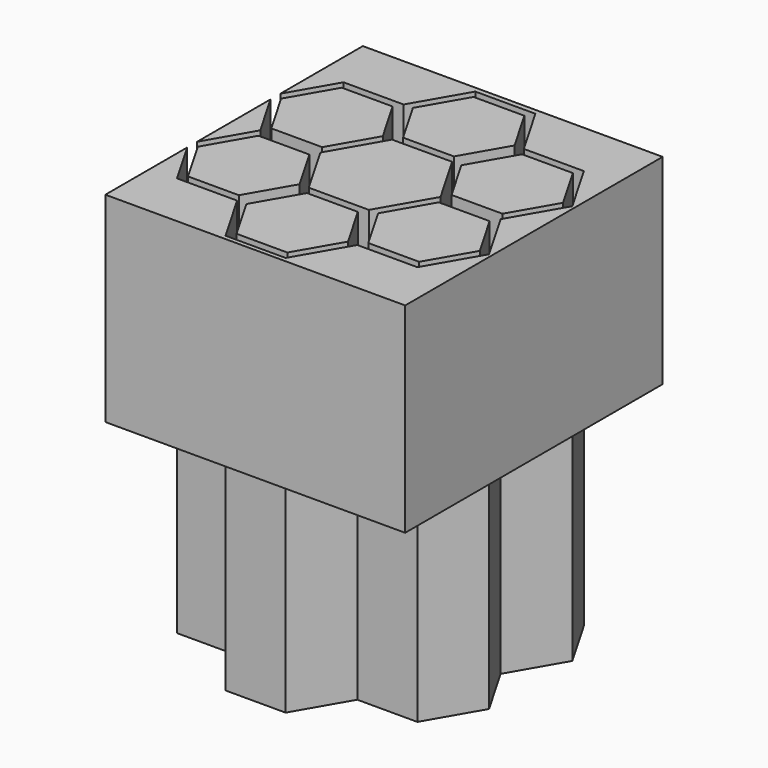
from build123d import *

# Parameters (mm, degrees)
F1_DEPTH = 25
F3_DEPTH = 25
F6_DEPTH = 25


with BuildPart() as f1:
    # F0 (on Top) → F1 (new body)
    with BuildSketch(Plane.XY):
        Polygon((-7.5055534995, 13), (-3.7527767497, 6.5), (3.7527767497, 6.5), (7.5055534995, 13), (3.7527767497, 19.5), (-3.7527767497, 19.5), align=None)
        Polygon((-3.1754264805, 7.5), (-6.3508529611, 13), (-3.1754264805, 18.5), (3.1754264805, 18.5), (6.3508529611, 13), (3.1754264805, 7.5), align=None, mode=Mode.SUBTRACT)
        Polygon((-7.5055534995, 0), (-3.7527767497, 6.5), (-7.5055534995, 13), (-15.0111069989, 13), (-18.7638837487, 6.5), (-15.0111069989, 0), align=None)
        Polygon((-8.0829037687, 1), (-14.4337567297, 1), (-17.6091832103, 6.5), (-14.4337567297, 12), (-8.0829037687, 12), (-4.9074772881, 6.5), align=None, mode=Mode.SUBTRACT)
        Polygon((7.5055534995, 13), (3.7527767497, 6.5), (7.5055534995, 0), (15.0111069989, 0), (18.7638837487, 6.5), (15.0111069989, 13), align=None)
        Polygon((8.0829037687, 1), (4.9074772881, 6.5), (8.0829037687, 12), (14.4337567297, 12), (17.6091832103, 6.5), (14.4337567297, 1), align=None, mode=Mode.SUBTRACT)
        Polygon((-3.7527767497, -6.5), (-7.5055534995, 0), (-15.0111069989, 0), (-18.7638837487, -6.5), (-15.0111069989, -13), (-7.5055534995, -13), align=None)
        Polygon((-14.4337567297, -12), (-17.6091832103, -6.5), (-14.4337567297, -1), (-8.0829037687, -1), (-4.9074772881, -6.5), (-8.0829037687, -12), align=None, mode=Mode.SUBTRACT)
        Polygon((15.0111069989, 0), (7.5055534995, 0), (3.7527767497, -6.5), (7.5055534995, -13), (15.0111069989, -13), (18.7638837487, -6.5), align=None)
        Polygon((8.0829037687, -12), (4.9074772881, -6.5), (8.0829037687, -1), (14.4337567297, -1), (17.6091832103, -6.5), (14.4337567297, -12), align=None, mode=Mode.SUBTRACT)
        Polygon((3.7527767497, -6.5), (-3.7527767497, -6.5), (-7.5055534995, -13), (-3.7527767497, -19.5), (3.7527767497, -19.5), (7.5055534995, -13), align=None)
        Polygon((3.1754264805, -18.5), (-3.1754264805, -18.5), (-6.3508529611, -13), (-3.1754264805, -7.5), (3.1754264805, -7.5), (6.3508529611, -13), align=None, mode=Mode.SUBTRACT)
    extrude(amount=F1_DEPTH)

    # F2 (on face) → F3 (join)
    with BuildSketch(Plane.XY.offset(25)):
        Polygon((3.7527767497, -19.5), (7.5055534995, -13), (15.0111069989, -13), (18.7638837487, -6.5), (15.0111069989, 0), (18.7638837487, 6.5), (15.0111069989, 13), (7.5055534995, 13), (3.7527767497, 19.5), (-3.7527767497, 19.5), (-7.5055534995, 13), (-15.0111069989, 13), (-18.7638837487, 6.5), (-15.0111069989, 0), (-18.7638837487, -6.5), (-15.0111069989, -13), (-7.5055534995, -13), (-3.7527767497, -19.5), align=None)
        Polygon((-8.0829037687, -1), (-4.9074772881, -6.5), (-8.0829037687, -12), (-14.4337567297, -12), (-17.6091832103, -6.5), (-14.4337567297, -1), align=None, mode=Mode.SUBTRACT)
        Polygon((-6.3508529611, -13), (-3.1754264805, -7.5), (3.1754264805, -7.5), (6.3508529611, -13), (3.1754264805, -18.5), (-3.1754264805, -18.5), align=None, mode=Mode.SUBTRACT)
        Polygon((17.6091832103, -6.5), (14.4337567297, -12), (8.0829037687, -12), (4.9074772881, -6.5), (8.0829037687, -1), (14.4337567297, -1), align=None, mode=Mode.SUBTRACT)
        Polygon((-14.4337567297, 12), (-8.0829037687, 12), (-4.9074772881, 6.5), (-8.0829037687, 1), (-14.4337567297, 1), (-17.6091832103, 6.5), align=None, mode=Mode.SUBTRACT)
        Polygon((3.1754264805, 18.5), (6.3508529611, 13), (3.1754264805, 7.5), (-3.1754264805, 7.5), (-6.3508529611, 13), (-3.1754264805, 18.5), align=None, mode=Mode.SUBTRACT)
        Polygon((-7.5055534995, 0), (-3.7527767497, 6.5), (3.7527767497, 6.5), (7.5055534995, 0), (3.7527767497, -6.5), (-3.7527767497, -6.5), align=None, mode=Mode.SUBTRACT)
        Polygon((14.4337567297, 12), (17.6091832103, 6.5), (14.4337567297, 1), (8.0829037687, 1), (4.9074772881, 6.5), (8.0829037687, 12), align=None, mode=Mode.SUBTRACT)
    extrude(amount=-F3_DEPTH)


with BuildPart() as f6:
    # F5 (on face) → F6 (new body)
    with BuildSketch(Plane.XY.offset(25)):
        Polygon((-15.0111069989, 0), (-18.3182880282, 5.7282055726), (-18.3182880282, -5.7282055726), align=None)
    extrude(amount=F6_DEPTH)


with BuildPart() as f6b:
    # F5 (on face) → F6, piece 2 (new body)
    with BuildSketch(Plane.XY.offset(25)):
        Polygon((-18.3182880282, -20.0500637293), (8.5395220667, -20.0500637293), (8.5395220667, -13), (7.5055534995, -13), (3.7527767497, -19.5), (-3.7527767497, -19.5), (-7.5055534995, -13), (-15.0111069989, -13), (-18.3182880282, -7.2717944274), (-18.3182880282, -19.2839857191), align=None)
        Polygon((19.1294308752, 20.1465263963), (8.5395220667, 20.1465263963), (8.5395220667, 13), (15.0111069989, 13), (18.7638837487, 6.5), (15.0111069989, 0), (18.7638837487, -6.5), (15.0111069989, -13), (8.5395220667, -13), (8.5395220667, -20.0500637293), (19.1294308752, -20.0500637293), align=None)
        Polygon((8.5395220667, 20.1465263963), (-18.3182880282, 20.1465263963), (-18.3182880282, 7.2717944274), (-15.0111069989, 13), (-7.5055534995, 13), (-3.7527767497, 19.5), (3.7527767497, 19.5), (7.5055534995, 13), (8.5395220667, 13), align=None)
    extrude(amount=F6_DEPTH)


with BuildPart() as f6c:
    # F4 (on face) → F6, piece 3 (new body)
    with BuildSketch(Plane.XY.offset(25)):
        Polygon((-4.9074772881, 6.5), (-8.0829037687, 12), (-14.4337567297, 12), (-17.6091832103, 6.5), (-14.4337567297, 1), (-8.0829037687, 1), align=None)
    extrude(amount=F6_DEPTH)


with BuildPart() as f6d:
    # F4 (on face) → F6, piece 4 (new body)
    with BuildSketch(Plane.XY.offset(25)):
        Polygon((-8.0829037687, -12), (-4.9074772881, -6.5), (-8.0829037687, -1), (-14.4337567297, -1), (-17.6091832103, -6.5), (-14.4337567297, -12), align=None)
    extrude(amount=F6_DEPTH)


with BuildPart() as f6e:
    # F4 (on face) → F6, piece 5 (new body)
    with BuildSketch(Plane.XY.offset(25)):
        Polygon((3.7527767497, 6.5), (-3.7527767497, 6.5), (-7.5055534995, 0), (-3.7527767497, -6.5), (3.7527767497, -6.5), (7.5055534995, 0), align=None)
    extrude(amount=F6_DEPTH)


with BuildPart() as f6f:
    # F4 (on face) → F6, piece 6 (new body)
    with BuildSketch(Plane.XY.offset(25)):
        Polygon((3.1754264805, -7.5), (-3.1754264805, -7.5), (-6.3508529611, -13), (-3.1754264805, -18.5), (3.1754264805, -18.5), (6.3508529611, -13), align=None)
    extrude(amount=F6_DEPTH)


with BuildPart() as f6g:
    # F4 (on face) → F6, piece 7 (new body)
    with BuildSketch(Plane.XY.offset(25)):
        Polygon((8.0829037687, -12), (14.4337567297, -12), (17.6091832103, -6.5), (14.4337567297, -1), (8.0829037687, -1), (4.9074772881, -6.5), align=None)
    extrude(amount=F6_DEPTH)


with BuildPart() as f6h:
    # F4 (on face) → F6, piece 8 (new body)
    with BuildSketch(Plane.XY.offset(25)):
        Polygon((14.4337567297, 1), (17.6091832103, 6.5), (14.4337567297, 12), (8.0829037687, 12), (4.9074772881, 6.5), (8.0829037687, 1), align=None)
    extrude(amount=F6_DEPTH)


with BuildPart() as f6i:
    # F4 (on face) → F6, piece 9 (new body)
    with BuildSketch(Plane.XY.offset(25)):
        Polygon((3.1754264805, 7.5), (6.3508529611, 13), (3.1754264805, 18.5), (-3.1754264805, 18.5), (-6.3508529611, 13), (-3.1754264805, 7.5), align=None)
    extrude(amount=F6_DEPTH)


solid = Compound([f1.part, f6.part, f6b.part, f6c.part, f6d.part, f6e.part, f6f.part, f6g.part, f6h.part, f6i.part])
